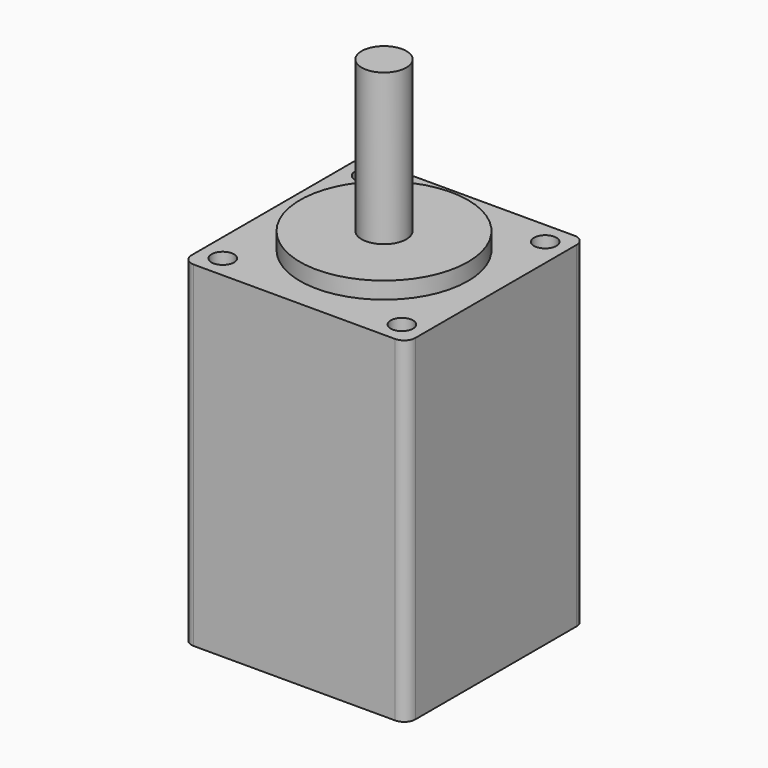
from build123d import *

# Parameters (mm, degrees)
F0_R     = 1
F0_R_2   = 7.5
F0_R_3   = 2
F1_DEPTH = 30
F2_DEPTH = 3.5
F3_DEPTH = 15
F4_DEPTH = 1.5


with BuildPart() as f1:
    # F0 (on Top) → F1 (new body)
    with BuildSketch(Plane.XY):
        with BuildLine():
            ThreePointArc((10, 9), (9.7071067812, 9.7071067812), (9, 10))
            Line((9, 10), (-9, 10))
            ThreePointArc((-9, 10), (-9.7071067812, 9.7071067812), (-10, 9))
            Line((-10, 9), (-10, -9))
            ThreePointArc((-10, -9), (-9.7071067812, -9.7071067812), (-9, -10))
            Line((-9, -10), (9, -10))
            ThreePointArc((9, -10), (9.7071067812, -9.7071067812), (10, -9))
            Line((10, -9), (10, 9))
        make_face()
        with Locations((-8, -8)):
            Circle(F0_R, mode=Mode.SUBTRACT)
        with Locations((8, -8)):
            Circle(F0_R, mode=Mode.SUBTRACT)
        with Locations((-8, 8)):
            Circle(F0_R, mode=Mode.SUBTRACT)
        Circle(F0_R_2, mode=Mode.SUBTRACT)
        with Locations((8, 8)):
            Circle(F0_R, mode=Mode.SUBTRACT)
        Circle(F0_R_2)
        Circle(F0_R_3, mode=Mode.SUBTRACT)
        Circle(F0_R_3)
        with Locations((-8, -8)):
            Circle(F0_R)
        with Locations((8, 8)):
            Circle(F0_R)
        with Locations((8, -8)):
            Circle(F0_R)
        with Locations((-8, 8)):
            Circle(F0_R)
    extrude(amount=-F1_DEPTH)

    # F0 (on Top) → F2 (cut)
    with BuildSketch(Plane.XY):
        with Locations((-8, 8)):
            Circle(F0_R)
        with Locations((8, 8)):
            Circle(F0_R)
        with Locations((-8, -8)):
            Circle(F0_R)
        with Locations((8, -8)):
            Circle(F0_R)
    extrude(amount=-F2_DEPTH, mode=Mode.SUBTRACT)

    # F0 (on Top) → F3 (join)
    with BuildSketch(Plane.XY):
        Circle(F0_R_3)
    extrude(amount=F3_DEPTH)

    # F0 (on Top) → F4 (join)
    with BuildSketch(Plane.XY):
        Circle(F0_R_2)
        Circle(F0_R_3, mode=Mode.SUBTRACT)
    extrude(amount=F4_DEPTH)


solid = f1.part
